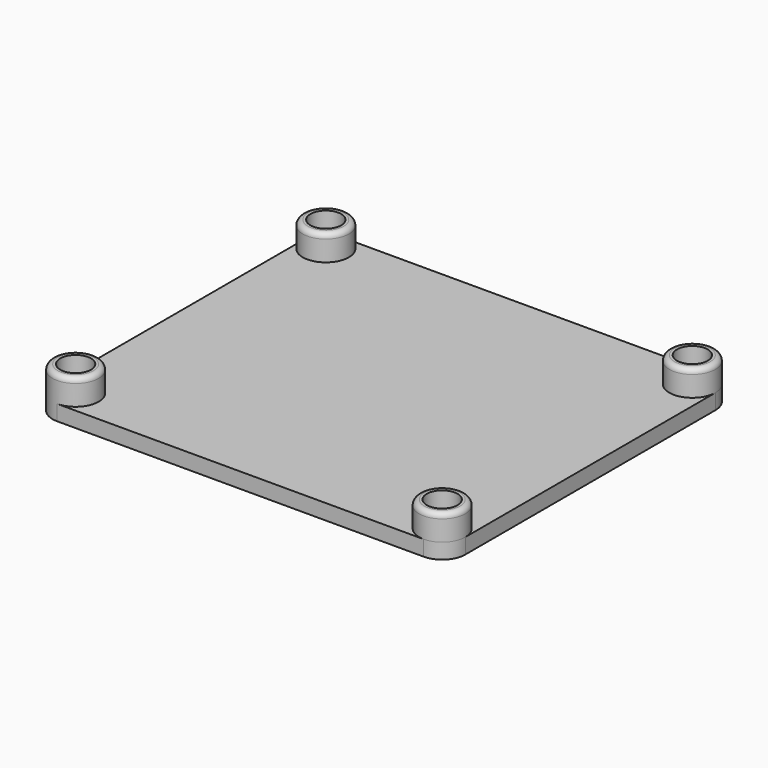
from build123d import *

# Parameters (mm, degrees)
SKETCH_W      = 80.5
SKETCH_H      = 70
PAD_DEPTH     = 3
FILLET_R      = 4.5
SKETCH001_R   = 1.75
POCKET_DEPTH  = 3.001
SKETCH002_R   = 4.5
SKETCH002_R_2 = 3
PAD001_DEPTH  = 5
FILLET001_R   = 1


with BuildPart() as part:
    # Sketch → Pad (new body)
    with BuildSketch(Plane.XY):
        Rectangle(SKETCH_W, SKETCH_H)
    extrude(amount=PAD_DEPTH)

    # Fillet
    fillet_edges = [part.edges().sort_by_distance(p)[0] for p in [
        (-40.25, -35, 1.5),
        (40.25, -35, 1.5),
        (40.25, 35, 1.5),
        (-40.25, 35, 1.5),
    ]]
    fillet(fillet_edges, radius=FILLET_R)

    # Sketch001 (on Face5 of Fillet) → Pocket (cut, through all)
    with BuildSketch(Plane.XY.offset(3)):
        with Locations((-35.75, -30.5)):
            Circle(SKETCH001_R)
        with Locations((35.75, -30.5)):
            Circle(SKETCH001_R)
        with Locations((35.75, 30.5)):
            Circle(SKETCH001_R)
        with Locations((-35.75, 30.5)):
            Circle(SKETCH001_R)
    extrude(amount=-POCKET_DEPTH, mode=Mode.SUBTRACT)

    # Sketch002 (on Face5 of Pocket) → Pad001 (join)
    with BuildSketch(Plane.XY.offset(3)):
        with Locations((-35.75, 30.5)):
            Circle(SKETCH002_R)
        with Locations((-35.75, 30.5)):
            Circle(SKETCH002_R_2, mode=Mode.SUBTRACT)
        with Locations((-35.75, -30.5)):
            Circle(SKETCH002_R)
        with Locations((-35.75, -30.5)):
            Circle(SKETCH002_R_2, mode=Mode.SUBTRACT)
    pad001 = extrude(amount=PAD001_DEPTH)

    # Mirrored: Pad001 across YZ
    add(pad001.mirror(Plane.YZ))

    # Fillet001
    fillet001_edges = [part.edges().sort_by_distance(p)[0] for p in [
        (-40.25, -30.5, 8),
        (-40.25, 30.5, 8),
        (40.25, 30.5, 8),
        (40.25, -30.5, 8),
    ]]
    fillet(fillet001_edges, radius=FILLET001_R)


solid = part.part
